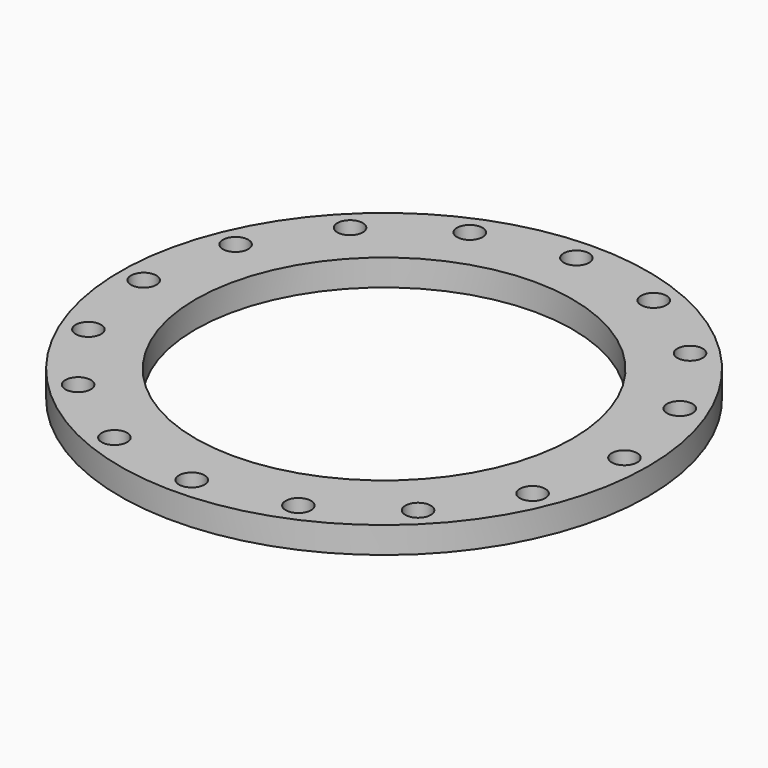
from build123d import *

# Parameters (mm, degrees)
F0_R     = 280
F0_R_2   = 200
F1_DEPTH = 28
F2_R     = 13.5
F3_DEPTH = 28


with BuildPart() as f1:
    # F0 (on Top) → F1 (new body)
    with BuildSketch(Plane.XY):
        Circle(F0_R)
        Circle(F0_R_2, mode=Mode.SUBTRACT)
    extrude(amount=F1_DEPTH)

    # F2 (on face) → F3 (cut, through all)
    with BuildSketch(Plane.XY.offset(28)):
        with Locations((255, 0)):
            Circle(F2_R)
        with Locations((235.589281, 97.584275)):
            Circle(F2_R)
        with Locations((180.312229, 180.312229)):
            Circle(F2_R)
        with Locations((97.584275, 235.589281)):
            Circle(F2_R)
        with Locations((0, 255)):
            Circle(F2_R)
        with Locations((-97.584275, 235.589281)):
            Circle(F2_R)
        with Locations((-180.312229, 180.312229)):
            Circle(F2_R)
        with Locations((-235.589281, 97.584275)):
            Circle(F2_R)
        with Locations((-255, 0)):
            Circle(F2_R)
        with Locations((-235.589281, -97.584275)):
            Circle(F2_R)
        with Locations((-180.312229, -180.312229)):
            Circle(F2_R)
        with Locations((-97.584275, -235.589281)):
            Circle(F2_R)
        with Locations((0, -255)):
            Circle(F2_R)
        with Locations((97.584275, -235.589281)):
            Circle(F2_R)
        with Locations((180.312229, -180.312229)):
            Circle(F2_R)
        with Locations((235.589281, -97.584275)):
            Circle(F2_R)
    extrude(amount=-F3_DEPTH, mode=Mode.SUBTRACT)


solid = f1.part
